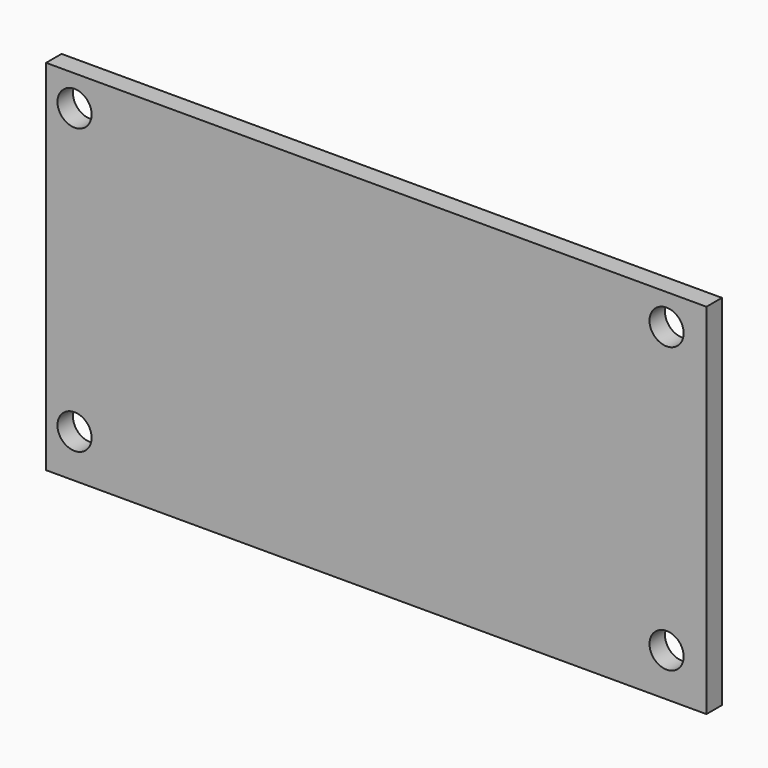
from build123d import *

# Parameters (mm, degrees)
CYLINDER_R       = 1.5
CYLINDER_DEPTH   = 10
ARRAY001_X_COUNT = 2
ARRAY001_X_PITCH = 52
ARRAY001_Z_COUNT = 2
ARRAY001_Z_PITCH = 25
BOX002_W         = 58
BOX002_H         = 1.7
BOX002_DEPTH     = 31.5


with BuildPart() as hole_array_clone:
    # Cylinder → Cylinder (new body)
    with BuildSketch(Plane(origin=(0, 0, 0), x_dir=(1, 0, 0), z_dir=(0, 1, 0))):
        Circle(CYLINDER_R)
    extrude(amount=CYLINDER_DEPTH)

    # Array001 X: hole array clone ×2


with BuildPart() as hole_array_clone_1:
    add(hole_array_clone.part)
    with Locations(*[(i * ARRAY001_X_PITCH, 0, 0) for i in range(1, ARRAY001_X_COUNT)]):
        add(hole_array_clone.part)

    # Array001 Z: hole array clone ×2


with BuildPart() as hole_array_clone_2:
    add(hole_array_clone_1.part)
    with Locations(*[(0, 0, i * ARRAY001_Z_PITCH) for i in range(1, ARRAY001_Z_COUNT)]):
        add(hole_array_clone_1.part)


with BuildPart() as hole_array_clone_3:
    # Array001 placement: moved
    add(hole_array_clone_2.part.moved(Location((3, 0, 9.25))))


with BuildPart() as hole_array_clone_4:
    # Clone001 placement: moved
    add(hole_array_clone_3.part.moved(Location((-0.5, 0, 0.55))))


with BuildPart() as pcb_mockup:
    # Box002 → Box002 (new body)
    with BuildSketch(Plane(origin=(0, 5, 6), x_dir=(1, 0, 0), z_dir=(0, 0, 1))):
        with Locations((29, 0.85)):
            Rectangle(BOX002_W, BOX002_H)
    extrude(amount=BOX002_DEPTH)

    # Cut: cut hole array clone
    add(hole_array_clone_4.part, mode=Mode.SUBTRACT)


solid = pcb_mockup.part
